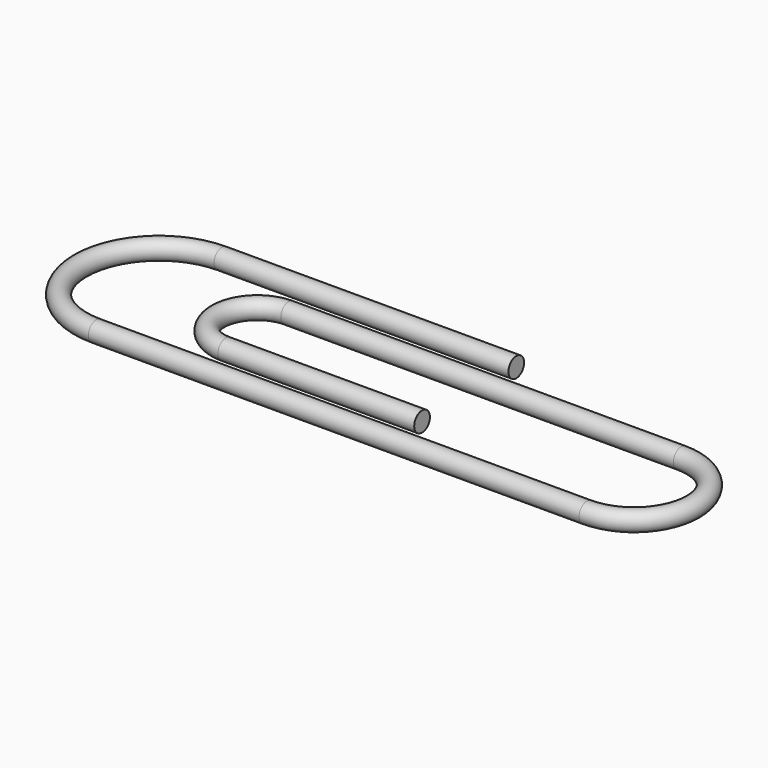
from build123d import *

# Parameters (mm, degrees)
F1_R = 2.5


with BuildPart() as f2:
    # F2: sweep along a path in F0
    with BuildLine(Plane.XY) as f2_path:
        Line((0, 0), (-75, 0))
        ThreePointArc((-75, 0), (-95, -20), (-75, -40))
        Line((-75, -40), (50, -40))
        ThreePointArc((50, -40), (65, -25), (50, -10))
        Line((50, -10), (-50, -10))
        ThreePointArc((-50, -10), (-60, -20), (-50, -30))
        Line((-50, -30), (0, -30))
    # F1 (on Right) → F2 (sweep)
    with BuildSketch(Plane.YZ):
        Circle(F1_R)
    sweep(path=f2_path.line)


solid = f2.part
